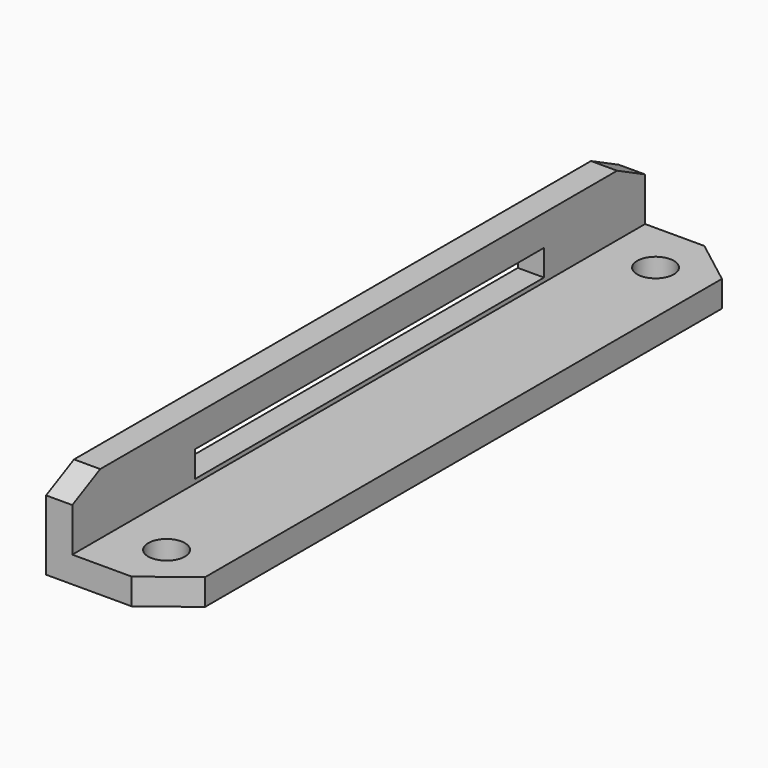
from build123d import *

# Parameters (mm, degrees)
SKETCH001_W  = 50
SKETCH001_H  = 3
PAD001_DEPTH = 3
SKETCH_R     = 2.1
PAD_DEPTH    = 3


with BuildPart() as pad001:
    # Sketch001 → Pad001 (new body)
    with BuildSketch(Plane.YZ):
        Polygon((0, 0), (82, 0), (82, 8), (78, 10.001209), (4, 10.001209), (0, 8), align=None)
        with Locations((42.5338, 4.983344)):
            Rectangle(SKETCH001_W, SKETCH001_H, mode=Mode.SUBTRACT)
    extrude(amount=PAD001_DEPTH)


with BuildPart() as fusion:
    # Sketch → Pad (new body)
    with BuildSketch(Plane.XY):
        Polygon((0, 82), (0, 0), (9.787406, 0), (14.999606, 4), (14.999606, 78), (9.787406, 82), align=None)
        with Locations((9, 6)):
            Circle(SKETCH_R, mode=Mode.SUBTRACT)
        with Locations((9, 76)):
            Circle(SKETCH_R, mode=Mode.SUBTRACT)
    extrude(amount=PAD_DEPTH)

    # Fusion: union Pad001
    add(pad001.part)


solid = fusion.part
